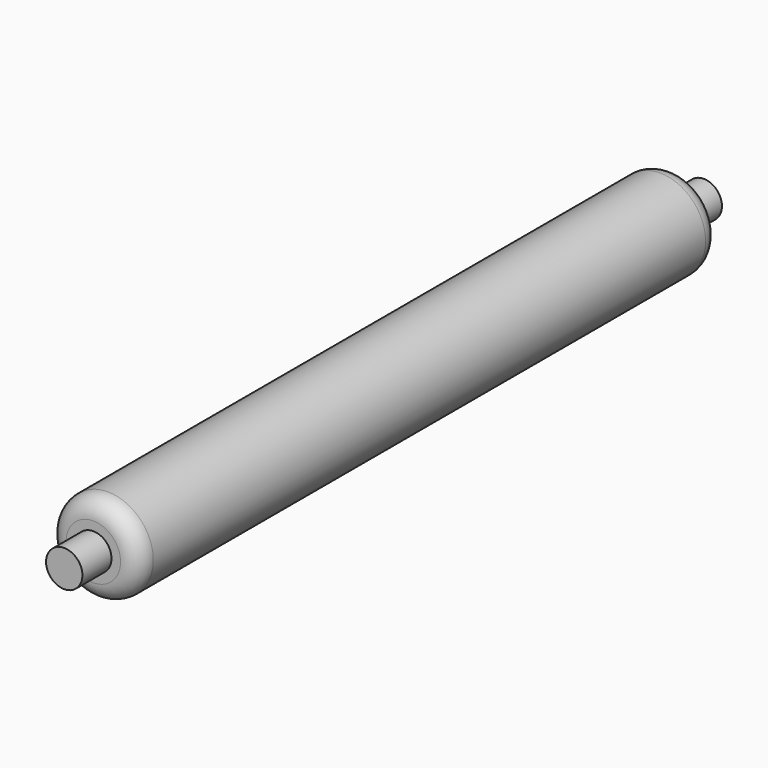
from build123d import *

# Parameters (mm, degrees)
F0_R     = 12.5
F1_DEPTH = 200
F2_R     = 5
F3_DEPTH = 10
F4_R     = 5
F5_DEPTH = 10
F6_R     = 5
F7_R     = 5


with BuildPart() as f1:
    # F0 (on Front) → F1 (new body)
    with BuildSketch(Plane.XZ):
        Circle(F0_R)
    extrude(amount=F1_DEPTH)

    # F2 (on face) → F3 (join)
    with BuildSketch(Plane.XZ.offset(200)):
        Circle(F2_R)
    extrude(amount=F3_DEPTH)

    # F4 (on face) → F5 (join)
    with BuildSketch(Plane(origin=(0, 0, 0), x_dir=(-1, 0, 0), z_dir=(0, 1, 0))):
        Circle(F4_R)
    extrude(amount=F5_DEPTH)

    # F6
    f6_edges = [f1.edges().sort_by_distance(p)[0] for p in [
        (-12.5, -200, 0),
    ]]
    fillet(f6_edges, radius=F6_R)

    # F7
    f7_edges = [f1.edges().sort_by_distance(p)[0] for p in [
        (-12.5, 0, 0),
        (11.035534, -198.535534, 0),
        (-12.5, -195, 0),
        (-7.5, -200, 0),
    ]]
    fillet(f7_edges, radius=F7_R)


solid = f1.part
